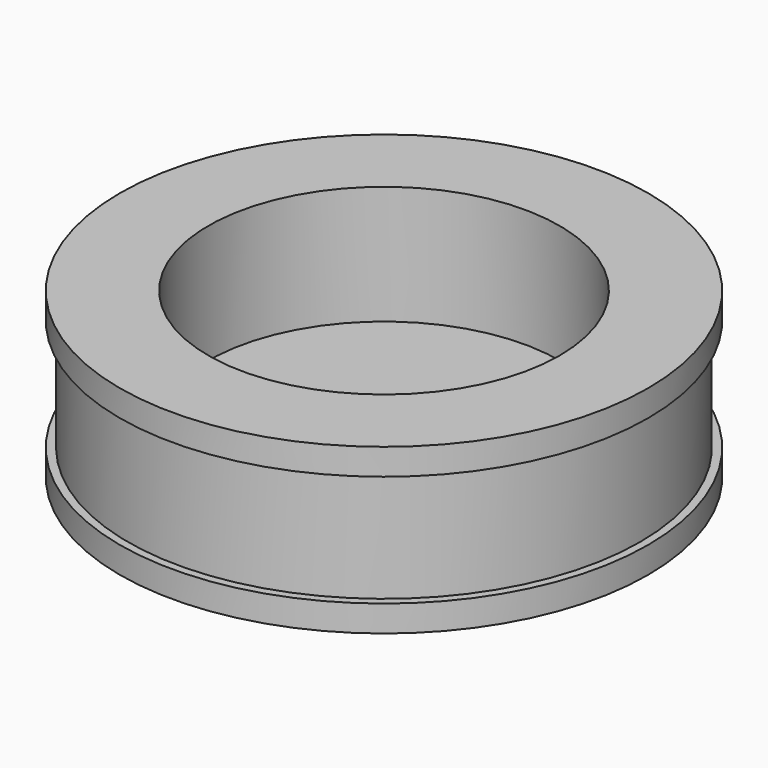
from build123d import *

# Parameters (mm, degrees)
SKETCH002_R      = 2.6
EXTRUDE001_DEPTH = 10
SKETCH001_R      = 22.36068
EXTRUDE_DEPTH    = 20


with BuildPart() as extrude001:
    # Sketch002 (on Face9 of Cut) → Extrude001 (new body)
    with BuildSketch(Plane.XY.offset(5.82)):
        Circle(SKETCH002_R)
    extrude(amount=EXTRUDE001_DEPTH)


with BuildPart() as extrude001_1:
    # Extrude001 placement: moved
    add(extrude001.part.moved(Location((0, 0, -7.5))))


with BuildPart() as extrude_body:
    # Sketch001 (on Face7 of Revolve) → Extrude (new body)
    with BuildSketch(Plane.XY.offset(20.92)):
        Circle(SKETCH001_R)
    extrude(amount=EXTRUDE_DEPTH)


with BuildPart() as extrude_body_1:
    # Extrude placement: moved
    add(extrude_body.part.moved(Location((0, 0, -15.1))))


with BuildPart() as cut001:
    # Sketch → Revolve (revolve)
    with BuildSketch(Plane.XZ):
        Polygon((0, 0), (33.62, 0), (33.62, 3.355495), (32.6, 3.355495), (32.6, 17.564505), (33.62, 17.564505), (33.62, 20.92), (0, 20.92), align=None)
    revolve(axis=Axis((0, 0, 0), (0, 0, 1)))

    # Cut: cut Extrude body
    add(extrude_body_1.part, mode=Mode.SUBTRACT)

    # Cut001: cut Extrude001
    add(extrude001_1.part, mode=Mode.SUBTRACT)


solid = cut001.part
